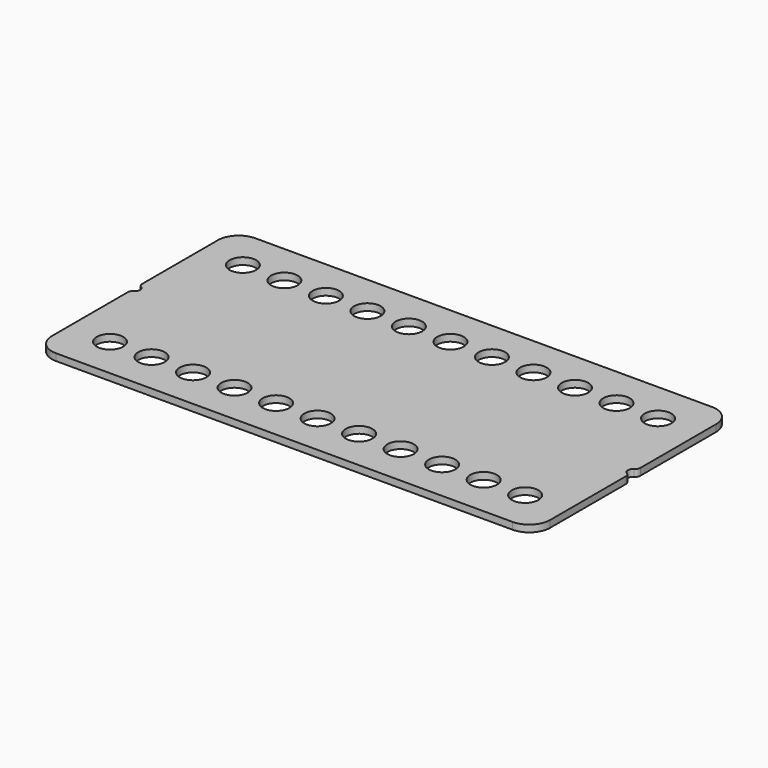
from build123d import *

# Parameters (mm, degrees)
F0_R     = 4.064
F1_DEPTH = 2.1082


with BuildPart() as f1:
    # F0 (on Top) → F1 (new body)
    with BuildSketch(Plane.XY):
        with BuildLine():
            Line((69.85, 38.1), (-69.85, 38.1))
            ThreePointArc((-69.85, 38.1), (-74.340128, 36.240128), (-76.2, 31.75))
            Line((-76.2, 31.75), (-76.2, 2.749631))
            ThreePointArc((-76.2, 2.749631), (-75.987315, 1.955881), (-75.40625, 1.374815))
            ThreePointArc((-75.40625, 1.374815), (-74.6125, 0), (-75.40625, -1.374815))
            ThreePointArc((-75.40625, -1.374815), (-75.987315, -1.955881), (-76.2, -2.749631))
            Line((-76.2, -2.749631), (-76.2, -31.75))
            ThreePointArc((-76.2, -31.75), (-74.340128, -36.240128), (-69.85, -38.1))
            Line((-69.85, -38.1), (69.85, -38.1))
            ThreePointArc((69.85, -38.1), (74.340128, -36.240128), (76.2, -31.75))
            Line((76.2, -31.75), (76.2, -2.749631))
            ThreePointArc((76.2, -2.749631), (75.987315, -1.955881), (75.40625, -1.374815))
            ThreePointArc((75.40625, -1.374815), (74.6125, 0), (75.40625, 1.374815))
            ThreePointArc((75.40625, 1.374815), (75.987315, 1.955881), (76.2, 2.749631))
            Line((76.2, 2.749631), (76.2, 31.75))
            ThreePointArc((76.2, 31.75), (74.340128, 36.240128), (69.85, 38.1))
        make_face()
        with Locations((-63.5, -25.4)):
            Circle(F0_R, mode=Mode.SUBTRACT)
        with Locations((-50.8, -25.4)):
            Circle(F0_R, mode=Mode.SUBTRACT)
        with Locations((-38.1, -25.4)):
            Circle(F0_R, mode=Mode.SUBTRACT)
        with Locations((-25.4, -25.4)):
            Circle(F0_R, mode=Mode.SUBTRACT)
        with Locations((-12.7, -25.4)):
            Circle(F0_R, mode=Mode.SUBTRACT)
        with Locations((0, -25.4)):
            Circle(F0_R, mode=Mode.SUBTRACT)
        with Locations((12.7, -25.4)):
            Circle(F0_R, mode=Mode.SUBTRACT)
        with Locations((25.4, -25.4)):
            Circle(F0_R, mode=Mode.SUBTRACT)
        with Locations((38.1, -25.4)):
            Circle(F0_R, mode=Mode.SUBTRACT)
        with Locations((50.8, -25.4)):
            Circle(F0_R, mode=Mode.SUBTRACT)
        with Locations((63.5, -25.4)):
            Circle(F0_R, mode=Mode.SUBTRACT)
        with Locations((-63.5, 25.4)):
            Circle(F0_R, mode=Mode.SUBTRACT)
        with Locations((-50.8, 25.4)):
            Circle(F0_R, mode=Mode.SUBTRACT)
        with Locations((-38.1, 25.4)):
            Circle(F0_R, mode=Mode.SUBTRACT)
        with Locations((-25.4, 25.4)):
            Circle(F0_R, mode=Mode.SUBTRACT)
        with Locations((-12.7, 25.4)):
            Circle(F0_R, mode=Mode.SUBTRACT)
        with Locations((0, 25.4)):
            Circle(F0_R, mode=Mode.SUBTRACT)
        with Locations((12.7, 25.4)):
            Circle(F0_R, mode=Mode.SUBTRACT)
        with Locations((25.4, 25.4)):
            Circle(F0_R, mode=Mode.SUBTRACT)
        with Locations((38.1, 25.4)):
            Circle(F0_R, mode=Mode.SUBTRACT)
        with Locations((50.8, 25.4)):
            Circle(F0_R, mode=Mode.SUBTRACT)
        with Locations((63.5, 25.4)):
            Circle(F0_R, mode=Mode.SUBTRACT)
    extrude(amount=-F1_DEPTH)


solid = f1.part
